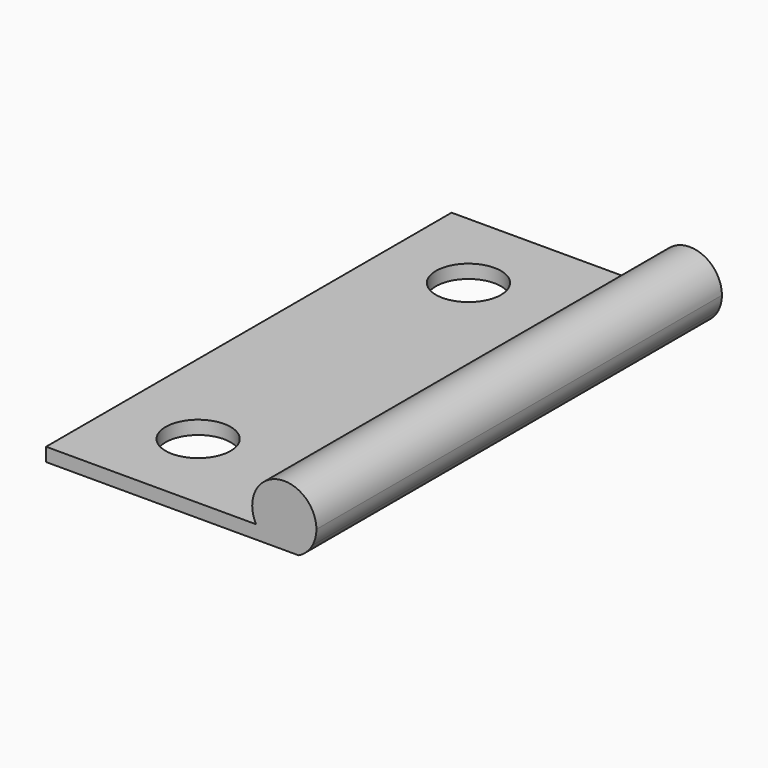
from build123d import *

# Parameters (mm, degrees)
F1_DEPTH = 38.1
F2_R     = 2.44475
F3_DEPTH = 25.4


with BuildPart() as f1:
    # F0 (on Front) → F1 (new body)
    with BuildSketch(Plane.XZ):
        with BuildLine():
            Line((0, 1.016), (0, 0))
            Line((0, 0), (16.8293692655, 0))
            ThreePointArc((16.8293692655, 0), (16.2269817234, 0.4269181341), (15.7818835326, 1.016))
            Line((15.7818835326, 1.016), (0, 1.016))
        make_face()
        with BuildLine():
            ThreePointArc((15.7818835326, 1.016), (16.2269817234, 0.4269181341), (16.8293692655, 0))
            Line((16.8293692655, 0), (18.9846307345, 0))
            ThreePointArc((18.9846307345, 0), (19.5870182766, 0.4269181341), (20.0321164674, 1.016))
            Line((20.0321164674, 1.016), (15.7818835326, 1.016))
        make_face()
        with BuildLine():
            ThreePointArc((20.32, 2.159), (17.3176516462, 4.4989225453), (15.7818835326, 1.016))
            Line((15.7818835326, 1.016), (20.0321164674, 1.016))
            ThreePointArc((20.0321164674, 1.016), (20.2469225453, 1.5696516462), (20.32, 2.159))
        make_face()
    extrude(amount=F1_DEPTH)

    # F2 (on face) → F3 (cut)
    with BuildSketch(Plane.XY.offset(1.016)):
        with Locations((6.35, -6.35)):
            Circle(F2_R)
        with Locations((6.35, -31.75)):
            Circle(F2_R)
    extrude(amount=-F3_DEPTH, mode=Mode.SUBTRACT)


solid = f1.part
